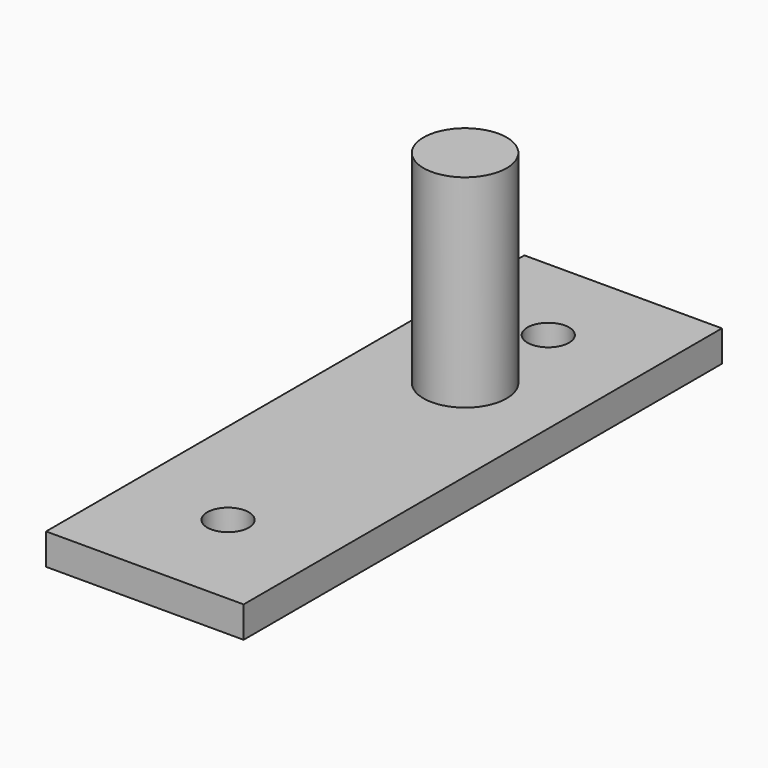
from build123d import *

# Parameters (mm, degrees)
F0_R     = 8
F1_DEPTH = 6
F2_DEPTH = 45
F3_D     = 8


with BuildPart() as f1:
    # F0 (on Top) → F1 (new body)
    with BuildSketch(Plane.XY):
        Polygon((19, 57.5), (0, 57.5), (-19, 57.5), (-19, 0), (-19, -57.5), (0, -57.5), (19, -57.5), (19, 0), align=None)
        with Locations((0, 19.5)):
            Circle(F0_R, mode=Mode.SUBTRACT)
        with Locations((0, 19.5)):
            Circle(F0_R)
    extrude(amount=F1_DEPTH)

    # F0 (on Top) → F2 (join)
    with BuildSketch(Plane.XY):
        with Locations((0, 19.5)):
            Circle(F0_R)
    extrude(amount=F2_DEPTH)

    # F3 (through all)
    with Locations(Plane(origin=(0, 0, 0), x_dir=(1, 0, 0), z_dir=(0, 0, -1))):
        with Locations((0, -39.5), (0, 37.5)):
            Hole(F3_D / 2)


solid = f1.part
